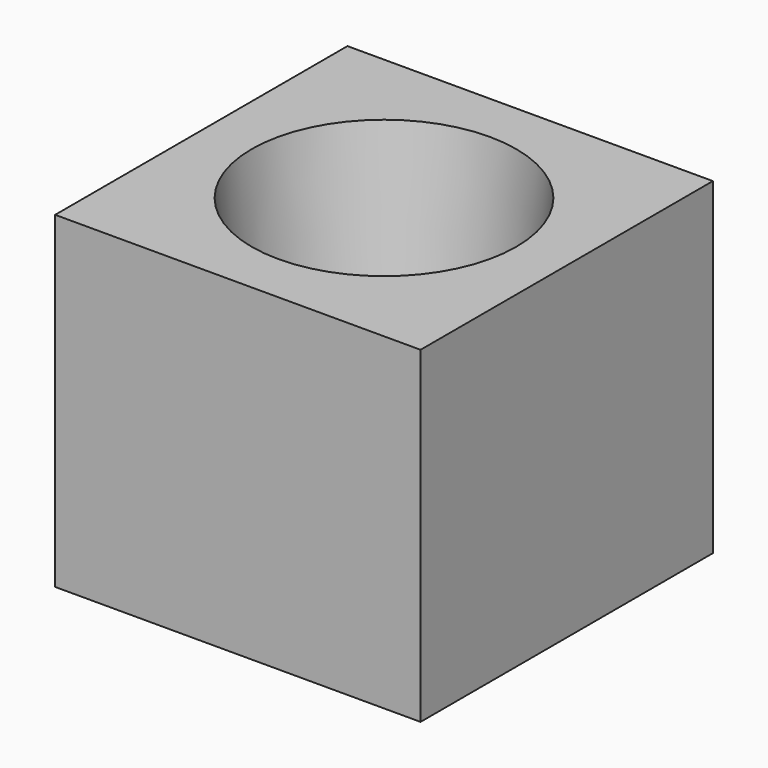
from build123d import *

# Parameters (mm, degrees)
F0_W     = 29
F0_H     = 29
F0_R     = 10.5
F0_R_2   = 7.5
F3_DEPTH = 24
F2_R     = 10.5
F5_DEPTH = 1
F6_DEPTH = 2


with BuildPart() as f3:
    # F0 (on Top) → F3 (new body, through all)
    with BuildSketch(Plane.XY):
        Rectangle(F0_W, F0_H)
        Circle(F0_R, mode=Mode.SUBTRACT)
        Circle(F0_R)
        Circle(F0_R_2, mode=Mode.SUBTRACT)
    extrude(amount=F3_DEPTH)

    # F0 (on Top) → F4 section 0
    with BuildSketch(Plane.XY):
        Circle(F0_R_2)
    # F2 (on offset) → F4 section 1
    with BuildSketch(Plane.XY.offset(24)):
        Circle(F2_R)
    loft(mode=Mode.SUBTRACT)

    # F0 (on Top) → F5 (join)
    with BuildSketch(Plane.XY):
        Rectangle(F0_W, F0_H)
        Circle(F0_R, mode=Mode.SUBTRACT)
        Circle(F0_R)
        Circle(F0_R_2, mode=Mode.SUBTRACT)
    extrude(amount=-F5_DEPTH)

    # F0 (on Top) → F6 (join)
    with BuildSketch(Plane.XY):
        Rectangle(F0_W, F0_H)
        Circle(F0_R, mode=Mode.SUBTRACT)
        Circle(F0_R)
        Circle(F0_R_2, mode=Mode.SUBTRACT)
        Circle(F0_R_2)
    extrude(amount=-F6_DEPTH)


solid = f3.part
